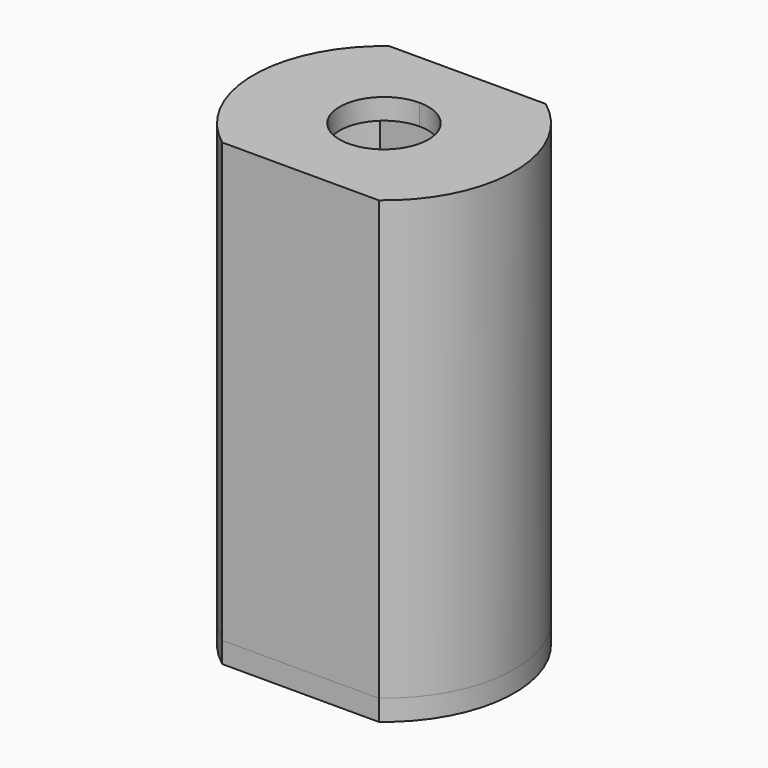
from build123d import *

# Parameters (mm, degrees)
F1_DEPTH = 2
F2_DEPTH = 40
F3_R     = 1.5
F4_DEPTH = 2


with BuildPart() as f1:
    # F0 (on Top) → F1 (new body)
    with BuildSketch(Plane.XY):
        with BuildLine():
            ThreePointArc((7.5, -10), (12.5, 0), (7.5, 10))
            Line((7.5, 10), (-7.5, 10))
            ThreePointArc((-7.5, 10), (-12.5, 0), (-7.5, -10))
            Line((-7.5, -10), (7.5, -10))
        make_face()
        with BuildLine():
            Line((-6.8007352544, 8), (0, 8))
            Line((0, 8), (6.8007352544, 8))
            ThreePointArc((6.8007352544, 8), (10.5, 0), (6.8007352544, -8))
            Line((6.8007352544, -8), (-6.8007352544, -8))
            ThreePointArc((-6.8007352544, -8), (-10.5, 0), (-6.8007352544, 8))
        make_face(mode=Mode.SUBTRACT)
        with BuildLine():
            Line((6.8007352544, 8), (0, 8))
            Line((0, 8), (-6.8007352544, 8))
            ThreePointArc((-6.8007352544, 8), (-10.5, 0), (-6.8007352544, -8))
            Line((-6.8007352544, -8), (6.8007352544, -8))
            ThreePointArc((6.8007352544, -8), (10.5, 0), (6.8007352544, 8))
        make_face()
        with BuildLine():
            ThreePointArc((0, 4.25), (3.00520382, 3.00520382), (4.25, 0))
            ThreePointArc((4.25, 0), (-3.00520382, -3.00520382), (0, 4.25))
        make_face(mode=Mode.SUBTRACT)
    extrude(amount=F1_DEPTH)

    # F0 (on Top) → F2 (join)
    with BuildSketch(Plane.XY):
        with BuildLine():
            ThreePointArc((7.5, -10), (12.5, 0), (7.5, 10))
            Line((7.5, 10), (-7.5, 10))
            ThreePointArc((-7.5, 10), (-12.5, 0), (-7.5, -10))
            Line((-7.5, -10), (7.5, -10))
        make_face()
        with BuildLine():
            Line((-6.8007352544, 8), (0, 8))
            Line((0, 8), (6.8007352544, 8))
            ThreePointArc((6.8007352544, 8), (10.5, 0), (6.8007352544, -8))
            Line((6.8007352544, -8), (-6.8007352544, -8))
            ThreePointArc((-6.8007352544, -8), (-10.5, 0), (-6.8007352544, 8))
        make_face(mode=Mode.SUBTRACT)
    extrude(amount=-F2_DEPTH)


with BuildPart() as f4:
    # F3 (on face) → F4 (new body)
    with BuildSketch(Plane(origin=(0, 0, -40), x_dir=(1, 0, 0), z_dir=(0, 0, -1))):
        with BuildLine():
            ThreePointArc((7.5, -10), (12.5, 0), (7.5, 10))
            Line((7.5, 10), (-7.5, 10))
            ThreePointArc((-7.5, 10), (-12.5, 0), (-7.5, -10))
            Line((-7.5, -10), (7.5, -10))
        make_face()
        with BuildLine():
            ThreePointArc((6.8007352544, 8), (10.5, 0), (6.8007352544, -8))
            Line((6.8007352544, -8), (-6.8007352544, -8))
            ThreePointArc((-6.8007352544, -8), (-10.5, 0), (-6.8007352544, 8))
            Line((-6.8007352544, 8), (6.8007352544, 8))
        make_face(mode=Mode.SUBTRACT)
        with BuildLine():
            Line((-6.8007352544, -8), (6.8007352544, -8))
            ThreePointArc((6.8007352544, -8), (10.5, 0), (6.8007352544, 8))
            Line((6.8007352544, 8), (-6.8007352544, 8))
            ThreePointArc((-6.8007352544, 8), (-10.5, 0), (-6.8007352544, -8))
        make_face()
        with Locations((-7.5, 0)):
            Circle(F3_R, mode=Mode.SUBTRACT)
        with Locations((7.5, 0)):
            Circle(F3_R, mode=Mode.SUBTRACT)
    extrude(amount=F4_DEPTH)


solid = Compound([f1.part, f4.part])
